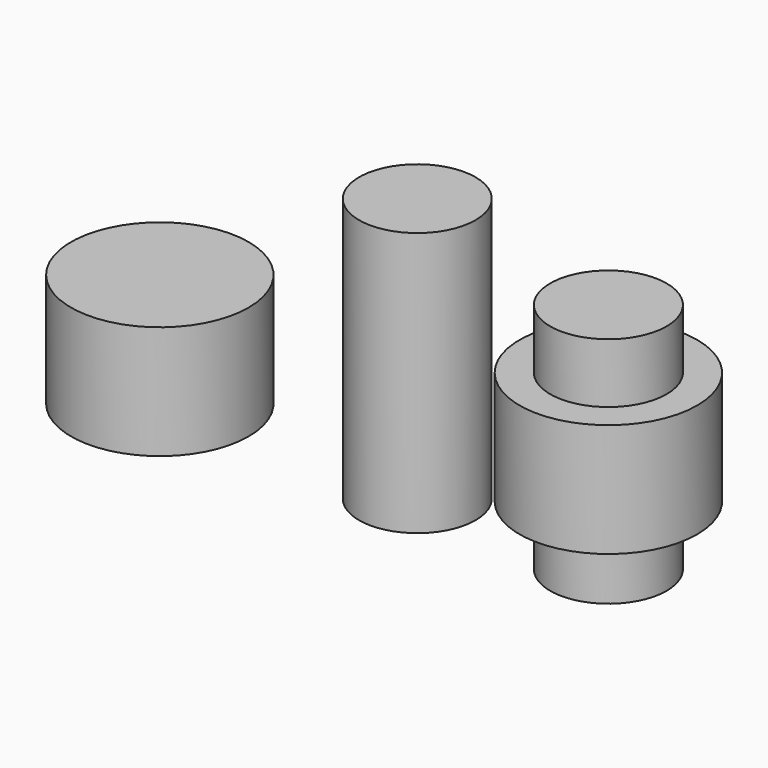
from build123d import *

# Parameters (mm, degrees)
F0_W = 2.975
F0_H = 3.8
F2_W = 1.95
F2_H = 8.85


with BuildPart() as f1:
    # F0 (on Front) → F1 (revolve)
    with BuildSketch(Plane.XZ):
        with Locations((1.4875, 1.9)):
            Rectangle(F0_W, F0_H)
    revolve(axis=Axis((0, 0, 1.9), (0, 0, -1)))


with BuildPart() as f3:
    # F2 (on Front) → F3 (revolve)
    with BuildSketch(Plane.XZ):
        with Locations((9.599809, 4.425)):
            Rectangle(F2_W, F2_H)
    revolve(axis=Axis((8.624809, 0, 4.425), (0, 0, -1)))


with BuildPart() as f5:
    # F4 (on Front) → F5 (revolve)
    with BuildSketch(Plane.XZ):
        Polygon((15.025032, 7.8), (15.025032, 0), (16.975032, 0), (16.975032, 2), (18.000032, 2), (18.000032, 5.8), (16.975032, 5.8), (16.975032, 7.8), align=None)
    revolve(axis=Axis((15.025032, 0, 3.9), (0, 0, -1)))


solid = Compound([f1.part, f3.part, f5.part])
